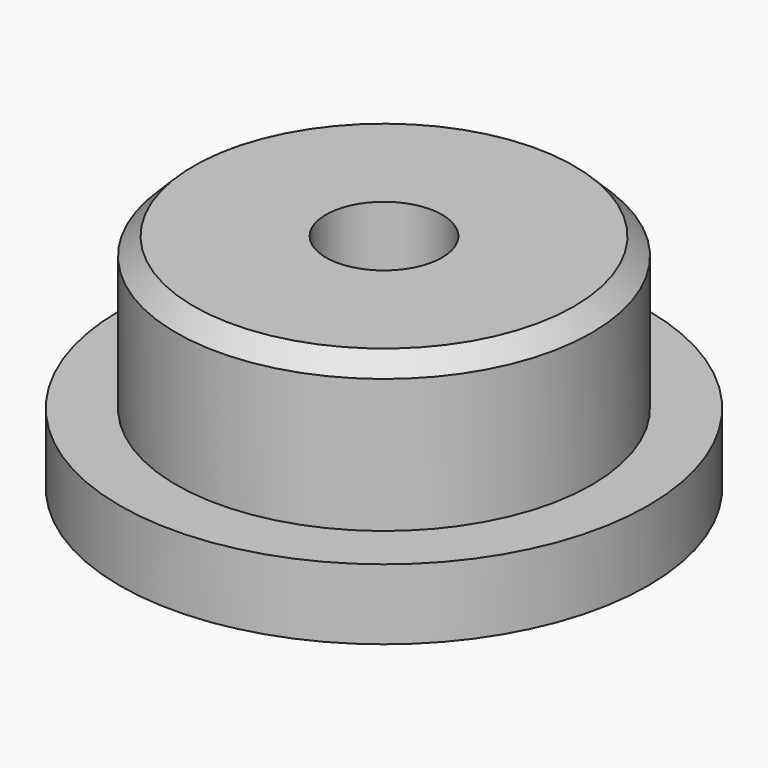
from build123d import *

# Parameters (mm, degrees)
F0_R     = 7.5
F1_DEPTH = 2
F2_R     = 5.9
F3_DEPTH = 4.3
F4_R     = 1.65
F5_DEPTH = 6.301
F6_SIZE  = 0.5


with BuildPart() as f1:
    # F0 (on Top) → F1 (new body)
    with BuildSketch(Plane.XY):
        Circle(F0_R)
    extrude(amount=F1_DEPTH)

    # F2 (on face) → F3 (join)
    with BuildSketch(Plane.XY.offset(2)):
        Circle(F2_R)
    extrude(amount=F3_DEPTH)

    # F4 (on face) → F5 (cut, through all)
    with BuildSketch(Plane.XY.offset(6.3)):
        Circle(F4_R)
    extrude(amount=-F5_DEPTH, mode=Mode.SUBTRACT)

    # F6
    f6_edges = [f1.edges().sort_by_distance(p)[0] for p in [
        (-5.9, 0, 6.3),
    ]]
    chamfer(f6_edges, length=F6_SIZE)


solid = f1.part
